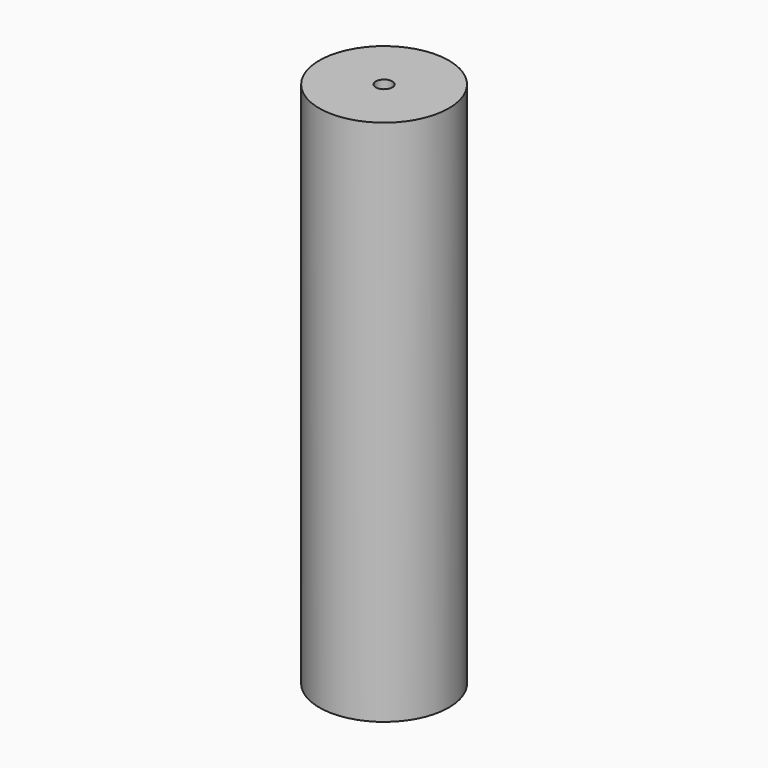
from build123d import *

# Parameters (mm, degrees)
F1_R     = 24.9577735622
F2_DEPTH = 203.2
F3_D     = 38.1
F3_DEPTH = 127
F3_TIP   = 11.4463947925
F5_D     = 6.35


with BuildPart() as f2:
    # F1 (on Top) → F2 (new body)
    with BuildSketch(Plane.XY):
        Circle(F1_R)
    extrude(amount=F2_DEPTH)

    # F3
    with Locations(Plane(origin=(0, 0, 0), x_dir=(1, 0, 0), z_dir=(0, 0, -1))):
        with Locations((0, 0)):
            Hole(F3_D / 2, depth=F3_DEPTH)
            with Locations((0, 0, -(F3_DEPTH + F3_TIP / 2))):  # 118° drill point
                Cone(0, F3_D / 2, F3_TIP, mode=Mode.SUBTRACT)

    # F5 (through all)
    with Locations(Plane(origin=(0, 0, 0), x_dir=(1, 0, 0), z_dir=(0, 0, -1))):
        with Locations((0, 0)):
            Hole(F5_D / 2)


solid = f2.part
